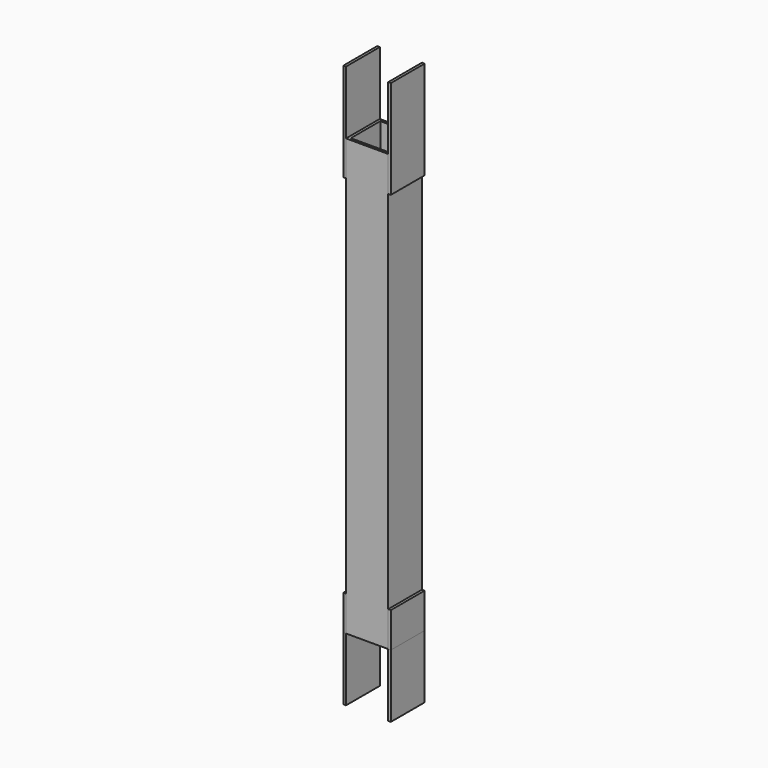
from build123d import *

# Parameters (mm, degrees)
F0_W     = 76.2
F0_H     = 76.2
F0_W_2   = 66.675
F0_H_2   = 66.675
F1_DEPTH = 787.4
F0_W_3   = 4.7625
F3_DEPTH = 114.3
F4_DEPTH = 901.7
F2_DEPTH = 723.9
F5_DEPTH = 63.5


with BuildPart() as f1:
    # F0 (on Top) → F1 (new body)
    with BuildSketch(Plane.XY):
        with Locations((-27.161424, 4.307747)):
            Rectangle(F0_W, F0_H)
        with Locations((-27.161424, 4.307747)):
            Rectangle(F0_W_2, F0_H_2, mode=Mode.SUBTRACT)
    extrude(amount=F1_DEPTH)


with BuildPart() as f3:
    # F0 (on Top) → F3 (new body)
    with BuildSketch(Plane.XY):
        with Locations((13.319826, 4.307747)):
            Rectangle(F0_W_3, F0_H)
        with Locations((-67.642674, 4.307747)):
            Rectangle(F0_W_3, F0_H)
    extrude(amount=-F3_DEPTH)


with BuildPart() as f4:
    # F0 (on Top) → F4 (new body)
    with BuildSketch(Plane.XY):
        with Locations((13.319826, 4.307747)):
            Rectangle(F0_W_3, F0_H)
        with Locations((-67.642674, 4.307747)):
            Rectangle(F0_W_3, F0_H)
    extrude(amount=F4_DEPTH)

    # F0 (on Top) → F2 (cut)
    with BuildSketch(Plane.XY):
        with Locations((13.319826, 4.307747)):
            Rectangle(F0_W_3, F0_H)
        with Locations((-67.642674, 4.307747)):
            Rectangle(F0_W_3, F0_H)
    extrude(amount=F2_DEPTH, mode=Mode.SUBTRACT)


with BuildPart() as f5:
    # F0 (on Top) → F5 (new body)
    with BuildSketch(Plane.XY):
        with Locations((13.319826, 4.307747)):
            Rectangle(F0_W_3, F0_H)
        with Locations((-67.642674, 4.307747)):
            Rectangle(F0_W_3, F0_H)
    extrude(amount=F5_DEPTH)


solid = Compound([f1.part, f3.part, f4.part, f5.part])
